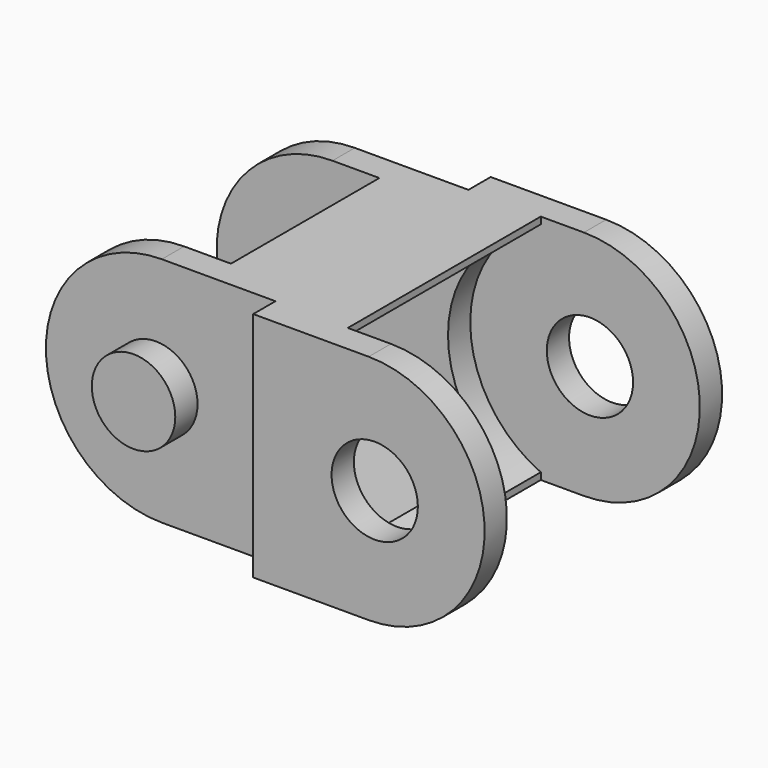
from build123d import *

# Parameters (mm, degrees)
PAD001005_DEPTH = 6.5
PAD001007_DEPTH = 8
SKETCH034_W     = 16
SKETCH034_H     = 2.5
POCKET024_DEPTH = 12.501
SKETCH036_W     = 10
SKETCH036_H     = 10
POCKET025_DEPTH = 12.501
SKETCH035_W     = 13
SKETCH035_H     = 13
POCKET026_DEPTH = 12.501
SKETCH033_R     = 2.25
PAD001006_DEPTH = 1.5
SKETCH032_R     = 2.25
PAD001004_DEPTH = 1.5
SKETCH006_R     = 2.325
POCKET023_DEPTH = 16.001
SKETCH030_W     = 10.3
SKETCH030_H     = 10
POCKET022_DEPTH = 16.276


with BuildPart() as inner_room_male:
    # Sketch029 → Pad001005 (new body, symmetric)
    with BuildSketch(Plane.XZ):
        with BuildLine():
            ThreePointArc((13, 6.45), (6.55, 0), (13, -6.45))
            Line((13, 6.45), (13, -6.45))
        make_face()
    extrude(amount=PAD001005_DEPTH, both=True)


with BuildPart() as cable_chain_link:
    # Sketch031 → Pad001007 (new body, symmetric)
    with BuildSketch(Plane.XZ):
        with BuildLine():
            ThreePointArc((0.325, 6.25), (-5.925, 0), (0.325, -6.25))
            Line((0.325, -6.25), (12.675, -6.25))
            ThreePointArc((12.675, -6.25), (18.925, 0), (12.675, 6.25))
            Line((0.325, 6.25), (12.675, 6.25))
        make_face()
    extrude(amount=PAD001007_DEPTH, both=True)

    # Sketch034 (on Face4 of Pad001007) → Pocket024 (cut, through all)
    with BuildSketch(Plane(origin=(0, 0, 6.25), x_dir=(-1, 0, 0), z_dir=(0, 0, 1))):
        Polygon((9.55, 8), (9.55, 6.5), (-6.45, 6.5), (-6.45, 8), (-6.45, 9), (9.55, 9), align=None)
        with Locations((1.55, -7.75)):
            Rectangle(SKETCH034_W, SKETCH034_H)
    extrude(amount=-POCKET024_DEPTH, mode=Mode.SUBTRACT)

    # Sketch036 (on Face5 of Pocket024) → Pocket025 (cut, through all)
    with BuildSketch(Plane(origin=(0, 0, 6.25), x_dir=(-1, 0, 0), z_dir=(0, 0, 1))):
        with Locations((2.15, 0)):
            Rectangle(SKETCH036_W, SKETCH036_H)
    extrude(amount=-POCKET025_DEPTH, mode=Mode.SUBTRACT)

    # Sketch035 (on Face4 of Pocket025) → Pocket026 (cut, through all)
    with BuildSketch(Plane(origin=(0, 0, 6.25), x_dir=(-1, 0, 0), z_dir=(0, 0, 1))):
        with Locations((-16.85, 0)):
            Rectangle(SKETCH035_W, SKETCH035_H)
    extrude(amount=-POCKET026_DEPTH, mode=Mode.SUBTRACT)

    # Sketch033 (on Face14 of Pocket026) → Pad001006 (new body)
    with BuildSketch(Plane.XZ.offset(6.5)):
        Circle(SKETCH033_R)
    extrude(amount=PAD001006_DEPTH)

    # Sketch032 (on Face5 of Pad001006) → Pad001004 (new body)
    with BuildSketch(Plane(origin=(0, 6.5, 0), x_dir=(1, 0, 0), z_dir=(0, 1, 0))):
        Circle(SKETCH032_R)
    extrude(amount=PAD001004_DEPTH)

    # Sketch006 (on Face6 of Pad001004) → Pocket023 (cut, through all)
    with BuildSketch(Plane(origin=(0, 8, 0), x_dir=(1, 0, 0), z_dir=(0, 1, 0))):
        with Locations((13, 0)):
            Circle(SKETCH006_R)
    extrude(amount=-POCKET023_DEPTH, mode=Mode.SUBTRACT)

    # Sketch030 (on Face9 of Pocket023) → Pocket022 (cut, through all)
    with BuildSketch(Plane(origin=(10.35, 0, 0), x_dir=(0, 0, 1), z_dir=(1, 0, 0))):
        Rectangle(SKETCH030_W, SKETCH030_H)
    extrude(amount=-POCKET022_DEPTH, mode=Mode.SUBTRACT)

    # Cut003003: cut inner-room-male
    add(inner_room_male.part, mode=Mode.SUBTRACT)


solid = cable_chain_link.part
